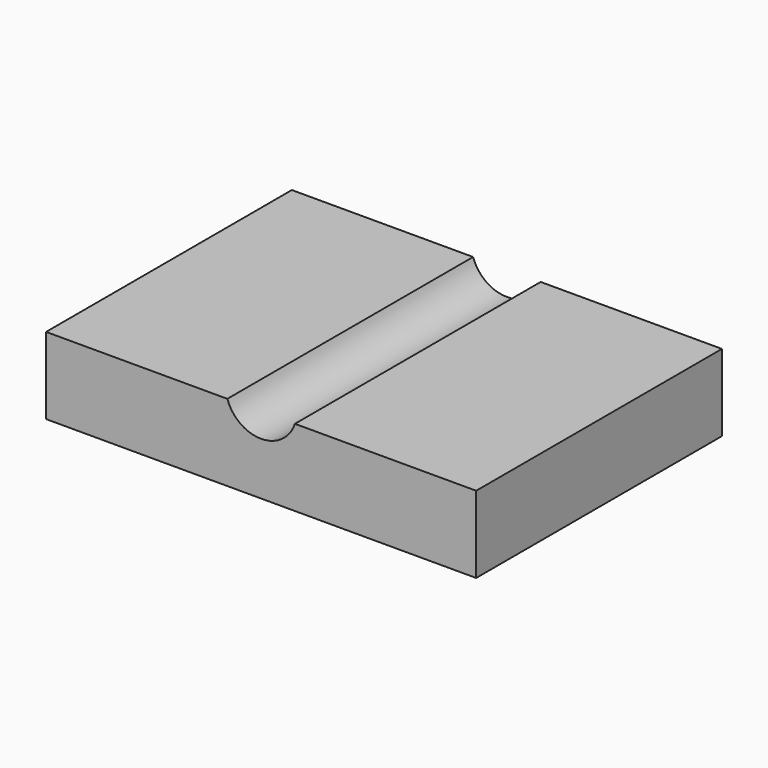
from build123d import *

# Parameters (mm, degrees)
F0_W     = 14
F0_H     = 10
F1_DEPTH = 2.5
F3_DEPTH = 10.001


with BuildPart() as f1:
    # F0 (on Top) → F1 (new body)
    with BuildSketch(Plane.XY):
        Rectangle(F0_W, F0_H)
    extrude(amount=F1_DEPTH)

    # F2 (on face) → F3 (cut, through all)
    with BuildSketch(Plane.XZ.offset(5)):
        with BuildLine():
            Line((1.1, 2.5), (-1.1, 2.5))
            ThreePointArc((-1.1, 2.5), (0, 1.711594), (1.1, 2.5))
        make_face()
    extrude(amount=-F3_DEPTH, mode=Mode.SUBTRACT)


solid = f1.part
